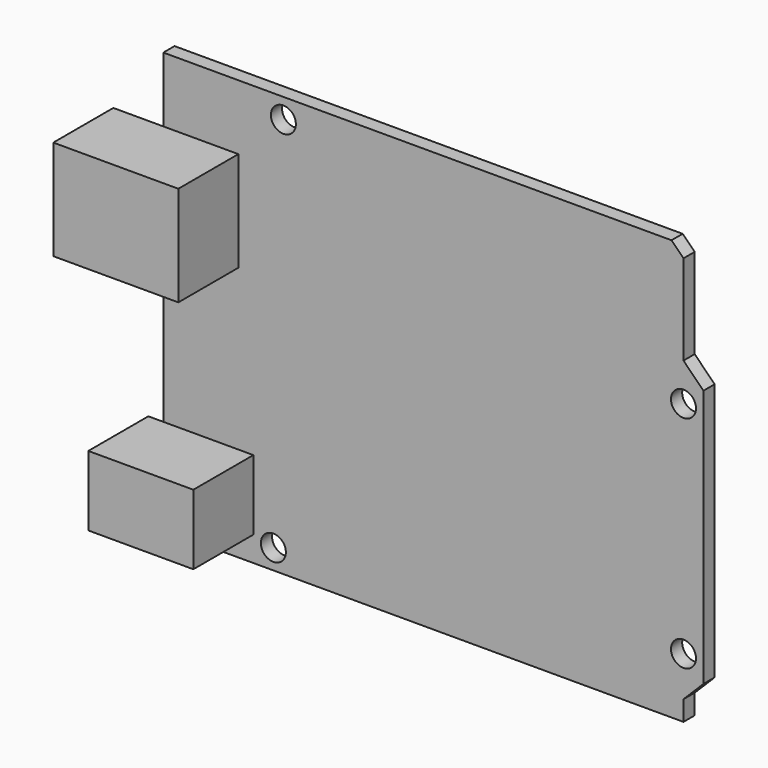
from build123d import *

# Parameters (mm, degrees)
F0_R     = 1.5875
F2_DEPTH = 1.778
F1_W     = 6.35
F1_H     = 12.7
F1_W_2   = 9.525
F3_DEPTH = 9.525
F1_W_3   = 1.905
F1_H_2   = 8.89
F1_W_4   = 11.43


with BuildPart() as f2:
    # F0 (on Front) → F2 (new body)
    with BuildSketch(Plane.XZ):
        Polygon((16.3864672662, 60.1158626378), (-48.1295327338, 60.1158626378), (-48.1295327338, 6.7758626378), (17.9104672662, 6.7758626378), (17.9104672662, 9.3158626378), (20.4504672662, 11.8558626378), (20.4504672662, 44.6218626378), (17.9104672662, 47.1618626378), (17.9104672662, 58.5918626378), align=None)
        with Locations((-34.1595327338, 9.3158626378)):
            Circle(F0_R, mode=Mode.SUBTRACT)
        with Locations((17.9104672662, 14.3958626378)):
            Circle(F0_R, mode=Mode.SUBTRACT)
        with Locations((-32.8895327338, 57.5758626378)):
            Circle(F0_R, mode=Mode.SUBTRACT)
        with Locations((17.9104672662, 42.3358626378)):
            Circle(F0_R, mode=Mode.SUBTRACT)
    extrude(amount=-F2_DEPTH)


with BuildPart() as f3:
    # F1 (on face) → F3 (new body)
    with BuildSketch(Plane.XZ):
        with Locations((-51.3045327338, 45.5108626378)):
            Rectangle(F1_W, F1_H)
        with Locations((-43.3670327338, 45.5108626378)):
            Rectangle(F1_W_2, F1_H)
    extrude(amount=F3_DEPTH)


with BuildPart() as f3b:
    # F1 (on face) → F3, piece 2 (new body)
    with BuildSketch(Plane.XZ):
        with Locations((-49.0820327338, 14.3958626378)):
            Rectangle(F1_W_3, F1_H_2)
        with Locations((-42.4145327338, 14.3958626378)):
            Rectangle(F1_W_4, F1_H_2)
    extrude(amount=F3_DEPTH)


solid = Compound([f2.part, f3.part, f3b.part])
